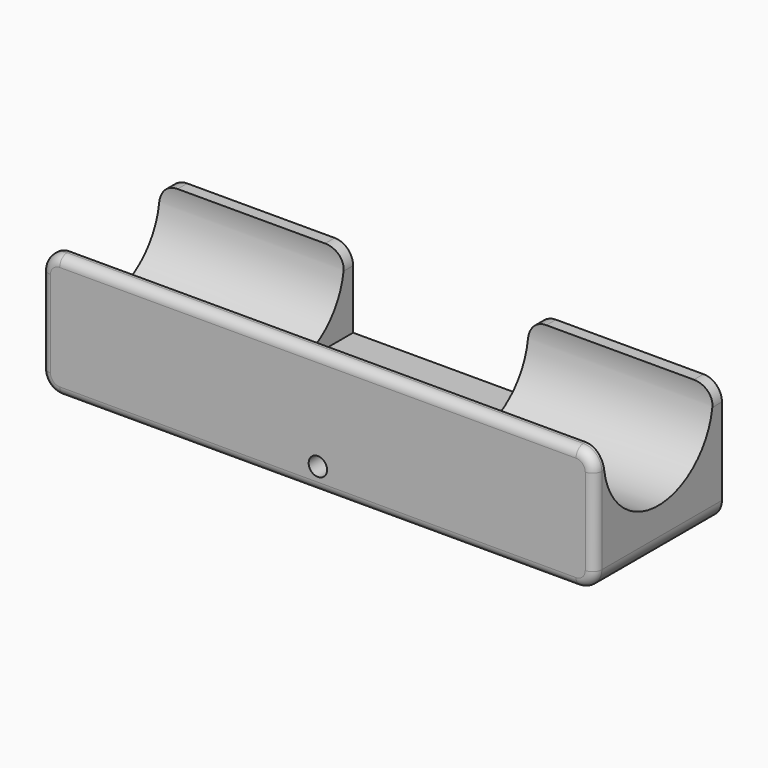
from build123d import *

# Parameters (mm, degrees)
PAD_DEPTH       = 76.2
SKETCH001_W     = 10.962794
SKETCH001_H     = 10.668
POCKET_DEPTH    = 12.7
SKETCH002_R     = 1.27
POCKET001_DEPTH = 21.945587
FILLET_R        = 2.54
FILLET001_R     = 1.27


with BuildPart() as part:
    # Sketch → Pad (new body)
    with BuildSketch(Plane.YZ):
        with BuildLine():
            Line((0, 0), (-1.651, 0))
            ThreePointArc((-20.274588, 0), (-10.962794, -10.668), (-1.651, 0))
            Line((-21.944587, 0), (-20.274588, 0))
            Line((-21.944587, -17.018), (-21.944587, 0))
            Line((0, -17.018), (-21.944587, -17.018))
            Line((0, 0), (0, -17.018))
        make_face()
    extrude(amount=PAD_DEPTH)

    # Sketch001 → Pocket (cut, symmetric)
    with BuildSketch(Plane.YZ.offset(38.1)):
        with Locations((-5.481397, -5.334)):
            Rectangle(SKETCH001_W, SKETCH001_H)
    extrude(amount=POCKET_DEPTH, both=True, mode=Mode.SUBTRACT)

    # Sketch002 → Pocket001 (cut, through all)
    with BuildSketch(Plane.XZ):
        with Locations((38.1, -13.843)):
            Circle(SKETCH002_R)
    extrude(amount=POCKET001_DEPTH, mode=Mode.SUBTRACT)

    # Fillet
    fillet_edges = [part.edges().sort_by_distance(p)[0] for p in [
        (0, -21.109587, 0),
        (0, -0.8255, 0),
        (76.2, -0.8255, 0),
        (76.2, -21.109587, 0),
        (25.4, -0.8255, 0),
        (50.8, -0.8255, 0),
        (0, -10.972294, -17.018),
        (76.2, -10.972294, -17.018),
    ]]
    fillet(fillet_edges, radius=FILLET_R)

    # Fillet001
    fillet001_edges = [part.edges().sort_by_distance(p)[0] for p in [
        (0, -21.944587, -8.509),
    ]]
    fillet(fillet001_edges, radius=FILLET001_R)


solid = part.part
